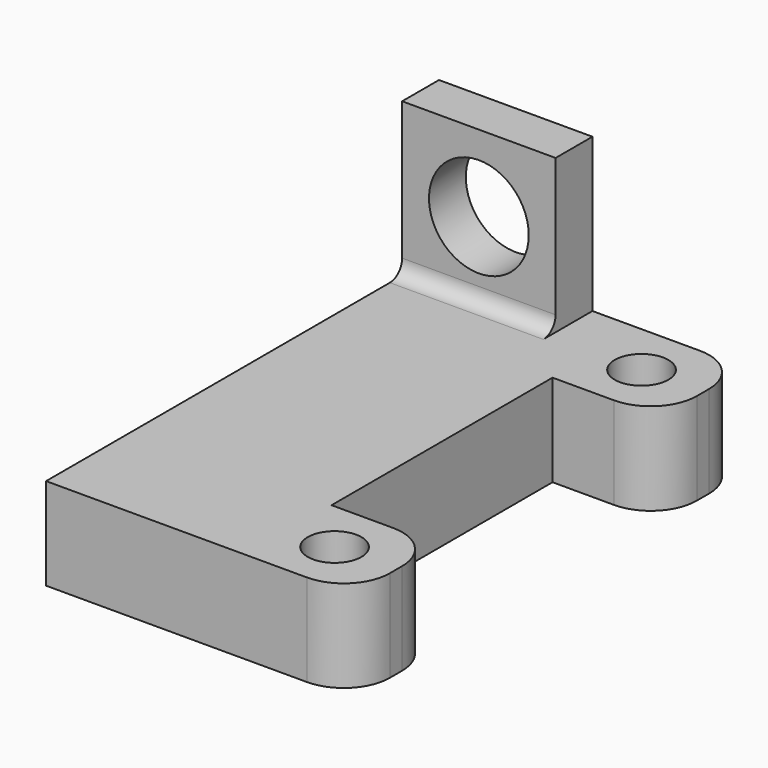
from build123d import *

# Parameters (mm, degrees)
SKETCH_W        = 20
SKETCH_H        = 32
PAD_DEPTH       = 6
SKETCH001_R     = 1.75
POCKET_DEPTH    = 6.001
SKETCH002_W     = 7
SKETCH002_H     = 18
POCKET001_DEPTH = 6.001
FILLET_R        = 3
SKETCH003_W     = 10
SKETCH003_H     = 3
PAD001_DEPTH    = 10
SKETCH004_R     = 3.25
POCKET002_DEPTH = 3.001
FILLET001_R     = 1


with BuildPart() as part:
    # Sketch → Pad (new body)
    with BuildSketch(Plane.XY):
        with Locations((10, 16)):
            Rectangle(SKETCH_W, SKETCH_H)
    extrude(amount=PAD_DEPTH)

    # Sketch001 (on Face6 of Pad) → Pocket (cut, through all)
    with BuildSketch(Plane.XY.offset(6)):
        with Locations((16, 28.5)):
            Circle(SKETCH001_R)
        with Locations((16, 3.5)):
            Circle(SKETCH001_R)
    extrude(amount=-POCKET_DEPTH, mode=Mode.SUBTRACT)

    # Sketch002 (on Face5 of Pocket) → Pocket001 (cut, through all)
    with BuildSketch(Plane.XY.offset(6)):
        with Locations((16.5, 16)):
            Rectangle(SKETCH002_W, SKETCH002_H)
    extrude(amount=-POCKET001_DEPTH, mode=Mode.SUBTRACT)

    # Fillet
    fillet_edges = [part.edges().sort_by_distance(p)[0] for p in [
        (20, 32, 3),
        (20, 25, 3),
        (20, 7, 3),
        (20, 0, 3),
    ]]
    fillet(fillet_edges, radius=FILLET_R)

    # Sketch003 (on Face5 of Fillet) → Pad001 (join)
    with BuildSketch(Plane.XY.offset(6)):
        with Locations((5, 30.5)):
            Rectangle(SKETCH003_W, SKETCH003_H)
    extrude(amount=PAD001_DEPTH)

    # Sketch004 (on Face18 of Pad001) → Pocket002 (cut, through all)
    with BuildSketch(Plane.XZ.offset(-29)):
        with Locations((5, 11)):
            Circle(SKETCH004_R)
    extrude(amount=-POCKET002_DEPTH, mode=Mode.SUBTRACT)

    # Fillet001
    fillet001_edges = [part.edges().sort_by_distance(p)[0] for p in [
        (5, 29, 6),
    ]]
    fillet(fillet001_edges, radius=FILLET001_R)


solid = part.part
